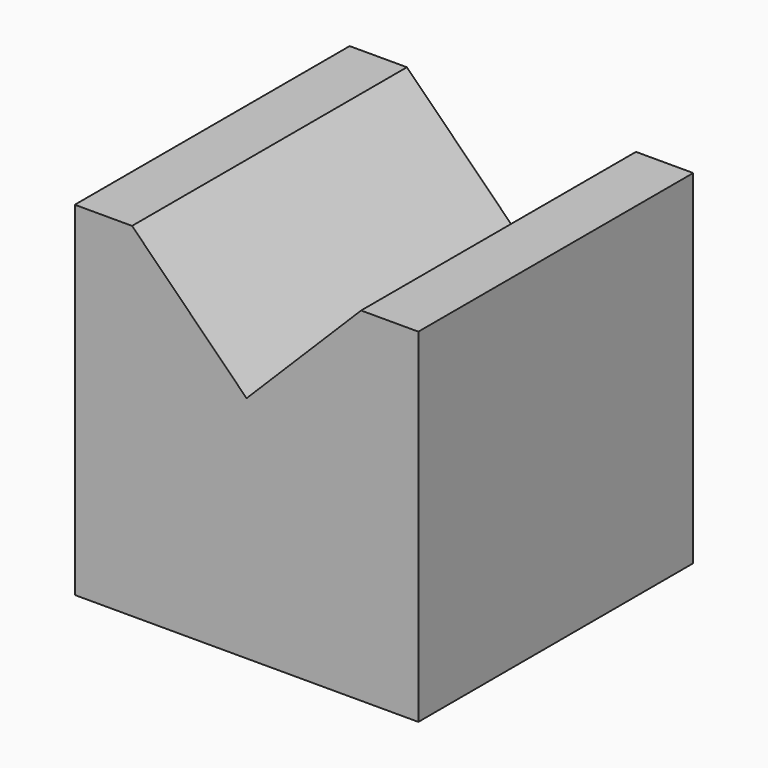
from build123d import *

# Parameters (mm, degrees)
F0_W     = 30
F0_H     = 30
F1_DEPTH = 30
F3_DEPTH = 30.001


with BuildPart() as f1:
    # F0 (on Top) → F1 (new body)
    with BuildSketch(Plane.XY):
        Rectangle(F0_W, F0_H)
    extrude(amount=F1_DEPTH)

    # F2 (on face) → F3 (cut, through all)
    with BuildSketch(Plane.XZ.offset(15)):
        Polygon((10, 30), (-10, 30), (0, 20), align=None)
    extrude(amount=-F3_DEPTH, mode=Mode.SUBTRACT)


solid = f1.part
